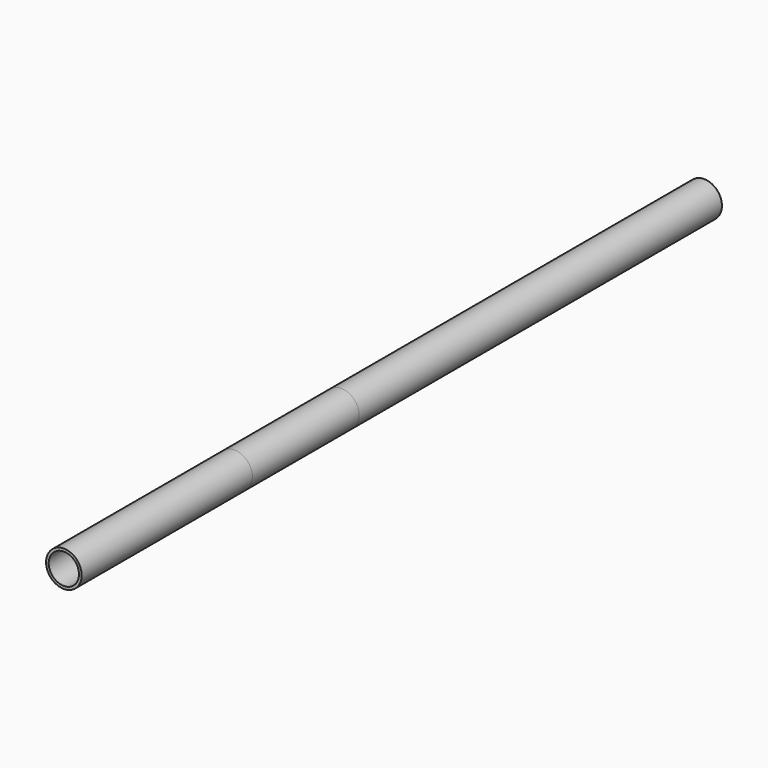
from build123d import *

# Parameters (mm, degrees)
F0_R      = 13.35
F0_R_2    = 11.35
F1_DEPTH  = 500
F2_DEPTH  = 300
F3_DEPTH  = 38
F4_DEPTH  = 600
F5_DEPTH  = 100
F6_DEPTH  = 65
F7_DEPTH  = 200
F8_DEPTH  = 440
F9_DEPTH  = 180
F10_DEPTH = 190
F11_DEPTH = 340


with BuildPart() as f1:
    # F0 (on Front) → F1 (new body)
    with BuildSketch(Plane.XZ):
        Circle(F0_R)
        Circle(F0_R_2, mode=Mode.SUBTRACT)
    extrude(amount=F1_DEPTH)


with BuildPart() as f2:
    # F0 (on Front) → F2 (new body)
    with BuildSketch(Plane.XZ):
        Circle(F0_R)
        Circle(F0_R_2, mode=Mode.SUBTRACT)
    extrude(amount=F2_DEPTH)


with BuildPart() as f3:
    # F0 (on Front) → F3 (new body)
    with BuildSketch(Plane.XZ):
        Circle(F0_R)
        Circle(F0_R_2, mode=Mode.SUBTRACT)
    extrude(amount=F3_DEPTH)


with BuildPart() as f4:
    # F0 (on Front) → F4 (new body)
    with BuildSketch(Plane.XZ):
        Circle(F0_R)
        Circle(F0_R_2, mode=Mode.SUBTRACT)
    extrude(amount=F4_DEPTH)


with BuildPart() as f5:
    # F0 (on Front) → F5 (new body)
    with BuildSketch(Plane.XZ):
        Circle(F0_R)
        Circle(F0_R_2, mode=Mode.SUBTRACT)
    extrude(amount=F5_DEPTH)


with BuildPart() as f6:
    # F0 (on Front) → F6 (new body)
    with BuildSketch(Plane.XZ):
        Circle(F0_R)
        Circle(F0_R_2, mode=Mode.SUBTRACT)
    extrude(amount=F6_DEPTH)


with BuildPart() as f7:
    # F0 (on Front) → F7 (new body)
    with BuildSketch(Plane.XZ):
        Circle(F0_R)
        Circle(F0_R_2, mode=Mode.SUBTRACT)
    extrude(amount=F7_DEPTH)


with BuildPart() as f8:
    # F0 (on Front) → F8 (new body)
    with BuildSketch(Plane.XZ):
        Circle(F0_R)
        Circle(F0_R_2, mode=Mode.SUBTRACT)
    extrude(amount=F8_DEPTH)


with BuildPart() as f9:
    # F0 (on Front) → F9 (new body)
    with BuildSketch(Plane.XZ):
        Circle(F0_R)
        Circle(F0_R_2, mode=Mode.SUBTRACT)
    extrude(amount=F9_DEPTH)


with BuildPart() as f10:
    # F0 (on Front) → F10 (new body)
    with BuildSketch(Plane.XZ):
        Circle(F0_R)
        Circle(F0_R_2, mode=Mode.SUBTRACT)
    extrude(amount=F10_DEPTH)


with BuildPart() as f11:
    # F0 (on Front) → F11 (new body)
    with BuildSketch(Plane.XZ):
        Circle(F0_R)
        Circle(F0_R_2, mode=Mode.SUBTRACT)
    extrude(amount=F11_DEPTH)


solid = Compound([f1.part, f2.part, f3.part, f4.part, f5.part, f6.part, f7.part, f8.part, f9.part, f10.part, f11.part])
